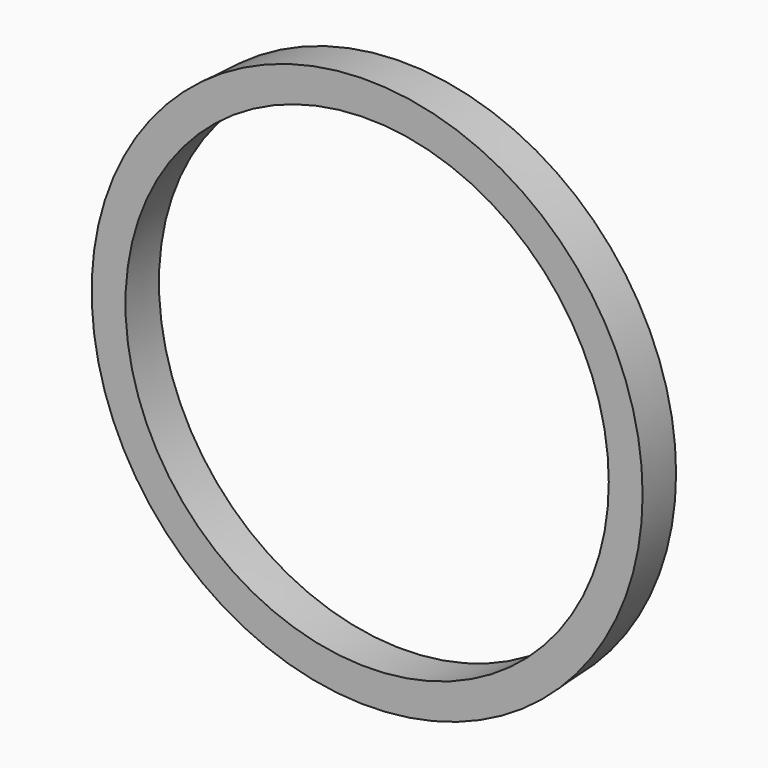
from build123d import *

# Parameters (mm, degrees)
F0_R     = 97.6187582264
F0_R_2   = 87.2047618032
F1_DEPTH = 15.99946
F1_TAPER = -3


with BuildPart() as f1:
    # F0 (on Front) → F1 (new body)
    with BuildSketch(Plane.XZ):
        Circle(F0_R)
        Circle(F0_R_2, mode=Mode.SUBTRACT)
    extrude(amount=F1_DEPTH, taper=F1_TAPER)


solid = f1.part
